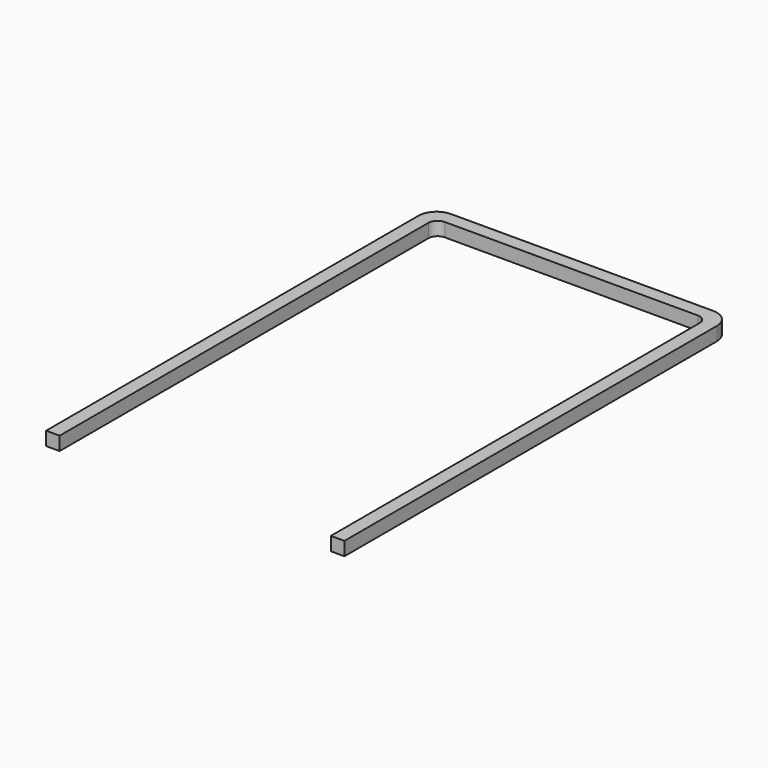
from build123d import *

# Parameters (mm, degrees)
F1_DEPTH = 38.1


with BuildPart() as f1:
    # F0 (on Top) → F1 (new body)
    with BuildSketch(Plane.XY):
        with BuildLine():
            Line((255.33233, 473.221256), (-481.26767, 473.221256))
            ThreePointArc((-481.26767, 473.221256), (-517.188694, 458.342281), (-532.06767, 422.421256))
            Line((-532.06767, 422.421256), (-532.06767, -885.678744))
            Line((-532.06767, -885.678744), (-493.96767, -885.678744))
            Line((-493.96767, -885.678744), (-493.96767, 409.721256))
            ThreePointArc((-493.96767, 409.721256), (-486.528182, 427.681769), (-468.56767, 435.121256))
            Line((-468.56767, 435.121256), (242.63233, 435.121256))
            ThreePointArc((242.63233, 435.121256), (260.592842, 427.681769), (268.03233, 409.721256))
            Line((268.03233, 409.721256), (268.03233, -885.678744))
            Line((268.03233, -885.678744), (306.13233, -885.678744))
            Line((306.13233, -885.678744), (306.13233, 422.421256))
            ThreePointArc((306.13233, 422.421256), (291.253355, 458.342281), (255.33233, 473.221256))
        make_face()
    extrude(amount=F1_DEPTH)


solid = f1.part
